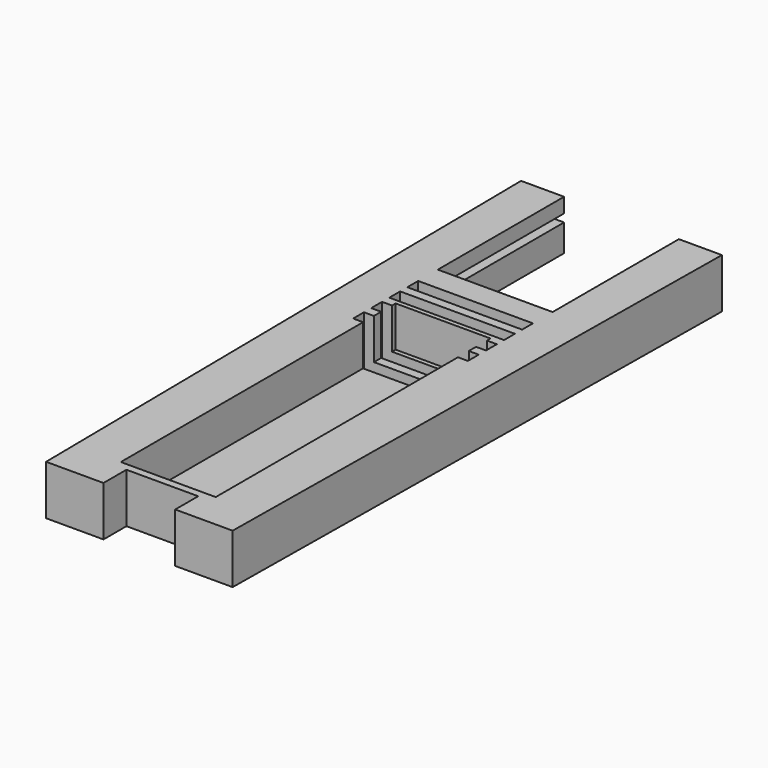
from build123d import *

# Parameters (mm, degrees)
PAD_DEPTH       = 11
SKETCH001_W     = 25.4
SKETCH001_H     = 3
POCKET_DEPTH    = 11.001
SKETCH003_W     = 31
SKETCH003_H     = 1.75
POCKET001_DEPTH = 37
SKETCH004_W     = 21
SKETCH004_H     = 76
POCKET002_DEPTH = 9


with BuildPart() as part:
    # Sketch → Pad (new body)
    with BuildSketch(Plane.XY):
        Polygon((-22.225, 133.35), (-20.6375, 0), (-7.9375, 0), (-7.9375, 6.35), (7.9375, 6.35), (7.9375, 0), (20.6375, 0), (22.225, 133.35), (12.7, 133.35), (12.7, 98.425), (-12.7, 98.425), (-12.7, 133.35), align=None)
    extrude(amount=PAD_DEPTH)

    # Sketch001 → Pocket (cut, through all)
    with BuildSketch(Plane.XY.offset(11)):
        with Locations((0, 91.5)):
            Rectangle(SKETCH001_W, SKETCH001_H)
        with Locations((0, 86.5)):
            Rectangle(SKETCH001_W, SKETCH001_H)
        with Locations((0, 81.5)):
            Rectangle(SKETCH001_W, SKETCH001_H)
        with Locations((0, 76.5)):
            Rectangle(SKETCH001_W, SKETCH001_H)
    extrude(amount=-POCKET_DEPTH, mode=Mode.SUBTRACT)

    # Sketch003 → Pocket001 (cut)
    with BuildSketch(Plane(origin=(0, 133.35, 0), x_dir=(-1, 0, 0), z_dir=(0, 1, 0))):
        with Locations((0, 6.875)):
            Rectangle(SKETCH003_W, SKETCH003_H)
    extrude(amount=-POCKET001_DEPTH, mode=Mode.SUBTRACT)

    # Sketch004 → Pocket002 (cut)
    with BuildSketch(Plane.XY.offset(11)):
        with Locations((0, 46)):
            Rectangle(SKETCH004_W, SKETCH004_H)
    extrude(amount=-POCKET002_DEPTH, mode=Mode.SUBTRACT)


solid = part.part
